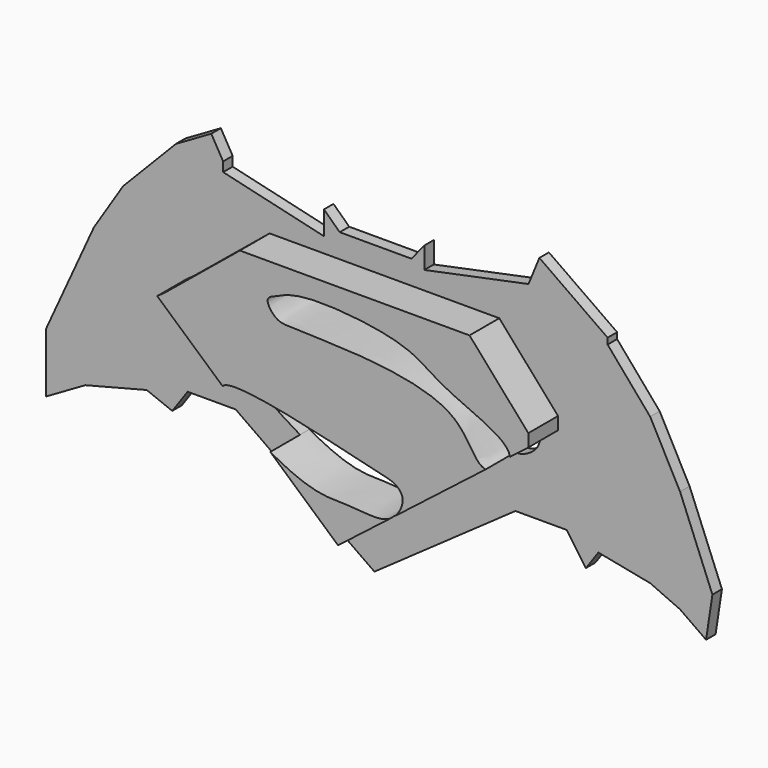
from build123d import *

# Parameters (mm, degrees)
F1_DEPTH = 2.032
F2_DEPTH = 8.382


with BuildPart() as f1:
    # F0 (on Front) → F1 (new body)
    with BuildSketch(Plane.XZ):
        Polygon((-33.1656560302, -12.3144071549), (-24.9560493976, -12.3144071549), (-1.2693220051, -29.00278382), (22.8211581707, -12.0452400297), (31.5690971911, -12.0452400297), (34.8564195064, -16.7153251581), (36.9973490829, -13.6765865041), (45.8349697292, -15.409831889), (50.9491488338, -17.6977552474), (55.3847869133, -20.8228639969), (56.4670786262, -13.6765865041), (50.9491488338, 0), (45.8349697292, 9.62273404), (38.5674498975, 18.1015059352), (38.5674498975, 19.1411144212), (26.9129447769, 27.3522432984), (25.0539752738, 22.8119343519), (7.2522702998, 19.1411144212), (7.2522702998, 22.8119343519), (5.056111142, 20.120261237), (-7.1910037659, 20.120261237), (-9.8826773465, 22.6773489267), (-9.8826773465, 18.6398401856), (-27.1023066864, 22.6773489267), (-27.1023066864, 24.2923554033), (-29.1312160043, 27.7968354823), (-35.1844094694, 24.2923554033), (-44.2015193403, 15.0060812011), (-49.1811148822, 7.2002275847), (-57.3513488688, -10.6994034722), (-57.3513488688, -20.897887722), (-55.7757131755, -19.9856776744), (-50.661534071, -17.0248374343), (-40.1640087366, -14.3331624568), (-35.8025580595, -16.0571066866), align=None)
        with BuildLine():
            Line((-19.1693194211, 16.0455666482), (20.0592763722, 16.0455666482))
            Line((20.0592763722, 16.0455666482), (30.1034301519, 4.6142059552))
            Line((30.1034301519, 4.6142059552), (30.1034301519, 2.4593232665))
            Line((30.1034301519, 2.4593232665), (26.9424937972, 0))
            add(Edge.make_bspline(
                [(22.8298229254, -3.1998072809), (24.462241695, -3.4349706597), (27.0395326488, -1.6373986063), (26.9424937972, 0)],
                knots=[0.9184623502, 0.9184623502, 0.9184623502, 0.9184623502, 1, 1, 1, 1], degree=3))
            Line((22.8298229254, -3.1998072809), (7.4094428032, -15.1974229735))
            add(Edge.make_bspline(
                [(7.4094428032, -15.1974229735), (7.1154585621, -15.5071544168), (6.7771867031, -15.7773373426), (6.4039175498, -15.9797581342)],
                knots=[0.4999530393, 0.4999530393, 0.4999530393, 0.4999530393, 0.5270711103, 0.5270711103, 0.5270711103, 0.5270711103], degree=3))
            Line((6.4039175498, -15.9797581342), (-2.3974832147, -22.8275675327))
            Line((-2.3974832147, -22.8275675327), (-13.9708261384, -12.5454063883))
            add(Edge.make_bspline(
                [(-13.9708261384, -12.5454063883), (-18.5719613103, -9.9436120425), (-23.0216929729, -6.50802384), (-22.1168683162, -5.308178656)],
                knots=[0.8545209224, 0.8545209224, 0.8545209224, 0.8545209224, 1, 1, 1, 1], degree=3))
            Line((-22.1168683162, -5.308178656), (-33.2852557897, 4.6142059552))
            Line((-33.2852557897, 4.6142059552), (-32.0940539241, 5.4527055472))
            Line((-32.0940539241, 5.4527055472), (-19.1693194211, 16.0455666482))
        make_face(mode=Mode.SUBTRACT)
    extrude(amount=F1_DEPTH)

    # F0 (on Front) → F2 (join)
    with BuildSketch(Plane.XZ):
        with BuildLine():
            Line((30.1034301519, 4.6142059552), (20.0592763722, 16.0455666482))
            Line((20.0592763722, 16.0455666482), (-19.1693194211, 16.0455666482))
            Line((-19.1693194211, 16.0455666482), (-32.0940539241, 5.4527055472))
            Line((-32.0940539241, 5.4527055472), (-33.2852557897, 4.6142059552))
            Line((-33.2852557897, 4.6142059552), (-22.1168683162, -5.308178656))
            add(Edge.make_bspline(
                [(-22.1168683162, -5.308178656), (-20.5640977138, -3.2491229978), (3.9959390264, -9.6652249084), (7.2520101228, -10.1280816189), (9.145655015, -12.0850009625), (8.2223679986, -14.340953616), (7.4094428032, -15.1974229735)],
                knots=[0, 0, 0, 0, 0.2496568073, 0.3539773818, 0.4249661519, 0.4999530393, 0.4999530393, 0.4999530393, 0.4999530393], degree=3))
            Line((7.4094428032, -15.1974229735), (22.8298229254, -3.1998072809))
            add(Edge.make_bspline(
                [(26.9424937972, 0), (26.7927647819, 2.5264734376), (14.7702586202, 6.4839571334), (9.9927479767, 11.7048966434), (-8.3153461992, 13.4266508013), (-12.6080071816, 11.3357704714), (-15.0688090824, 10.4134312297), (-13.1312061498, 7.6002957892), (-9.960406249, 7.0516420566), (19.275750104, 7.4780233176), (20.6934251658, -2.8920415747), (22.8298229254, -3.1998072809)],
                knots=[0, 0, 0, 0, 0.1258109696, 0.2321042634, 0.3794610791, 0.4583990161, 0.5056043961, 0.5599429381, 0.6264367852, 0.8117514648, 0.9184623502, 0.9184623502, 0.9184623502, 0.9184623502], degree=3))
            Line((26.9424937972, 0), (30.1034301519, 2.4593232665))
            Line((30.1034301519, 2.4593232665), (30.1034301519, 4.6142059552))
        make_face()
        with BuildLine():
            add(Edge.make_bspline(
                [(6.4039175498, -15.9797581342), (4.6855915646, -16.911592182), (-0.7377498155, -15.8000970006), (-5.8350345939, -16.6862025714), (-12.3188815542, -13.47952806), (-13.9708261384, -12.5454063883)],
                knots=[0.5270711103, 0.5270711103, 0.5270711103, 0.5270711103, 0.6519078017, 0.8022896001, 0.8545209224, 0.8545209224, 0.8545209224, 0.8545209224], degree=3))
            Line((-13.9708261384, -12.5454063883), (-2.3974832147, -22.8275675327))
            Line((-2.3974832147, -22.8275675327), (6.4039175498, -15.9797581342))
        make_face()
    extrude(amount=F2_DEPTH)


solid = f1.part
